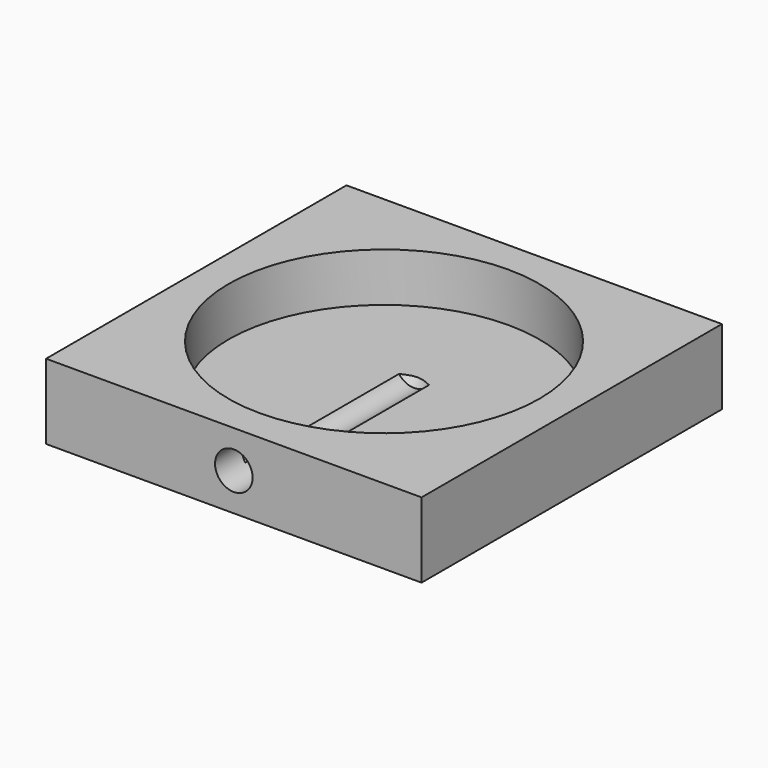
from build123d import *

# Parameters (mm, degrees)
F0_W     = 63.5
F0_H     = 12.7
F1_DEPTH = 63.5
F2_R     = 26.289
F3_DEPTH = 8.255
F5_D     = 6.35
F5_DEPTH = 38.1
F5_TIP   = 1.9077324654


with BuildPart() as f1:
    # F0 (on Front) → F1 (new body)
    with BuildSketch(Plane.XZ):
        with Locations((-24.3473223271, 6.35)):
            Rectangle(F0_W, F0_H)
    extrude(amount=F1_DEPTH)

    # F2 (on face) → F3 (cut)
    with BuildSketch(Plane.XY.offset(12.7)):
        with Locations((-24.3473223271, -31.75)):
            Circle(F2_R)
    extrude(amount=-F3_DEPTH, mode=Mode.SUBTRACT)

    # F5
    with Locations(Plane.XZ.offset(63.5)):
        with Locations((-24.3473223271, 6.35)):
            Hole(F5_D / 2, depth=F5_DEPTH)
            with Locations((0, 0, -(F5_DEPTH + F5_TIP / 2))):  # 118° drill point
                Cone(0, F5_D / 2, F5_TIP, mode=Mode.SUBTRACT)


solid = f1.part
